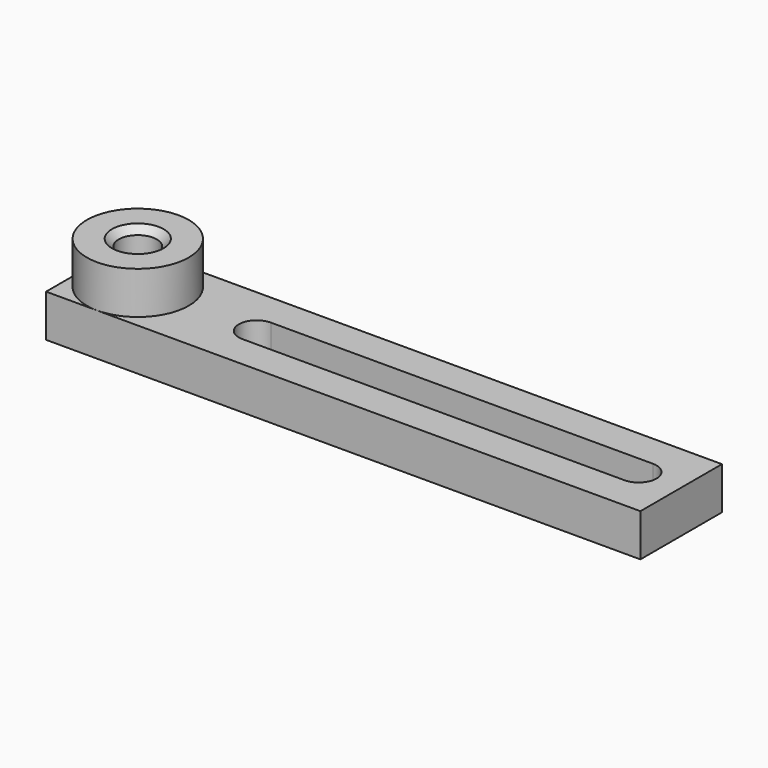
from build123d import *

# Parameters (mm, degrees)
SKETCH001_W      = 90
SKETCH001_H      = 20
SKETCH001_R      = 6
EXTRUDE001_DEPTH = 5
SKETCH_W         = 70
SKETCH_H         = 12
SKETCH_R         = 2.25
EXTRUDE_DEPTH    = 10
CHAMFER_SIZE     = 0.8


with BuildPart() as extrude001:
    # Sketch001 → Extrude001 (new body)
    with BuildSketch(Plane.XY):
        with Locations((38, 0)):
            Rectangle(SKETCH001_W, SKETCH001_H)
        with Locations((6, 0)):
            Circle(SKETCH001_R, mode=Mode.SUBTRACT)
    extrude(amount=EXTRUDE001_DEPTH)


with BuildPart() as extrude001_1:
    # Extrude001 placement: moved
    add(extrude001.part.moved(Location((0, 0, 5))))


with BuildPart() as chamfer_body:
    # Sketch → Extrude (new body)
    with BuildSketch(Plane.XY):
        with Locations((35, 0)):
            Rectangle(SKETCH_W, SKETCH_H)
        with Locations((6, 0)):
            Circle(SKETCH_R, mode=Mode.SUBTRACT)
        with BuildLine():
            ThreePointArc((20, 2.1), (17.9, 0), (20, -2.1))
            Line((20, -2.1), (65, -2.1))
            ThreePointArc((65, -2.1), (67.1, 0), (65, 2.1))
            Line((20, 2.1), (65, 2.1))
        make_face(mode=Mode.SUBTRACT)
    extrude(amount=EXTRUDE_DEPTH)

    # Cut: cut Extrude001
    add(extrude001_1.part, mode=Mode.SUBTRACT)

    # Chamfer
    chamfer_edges = [chamfer_body.edges().sort_by_distance(p)[0] for p in [
        (3.75, 0, 0),
        (3.75, 0, 10),
    ]]
    chamfer(chamfer_edges, length=CHAMFER_SIZE)


solid = chamfer_body.part
